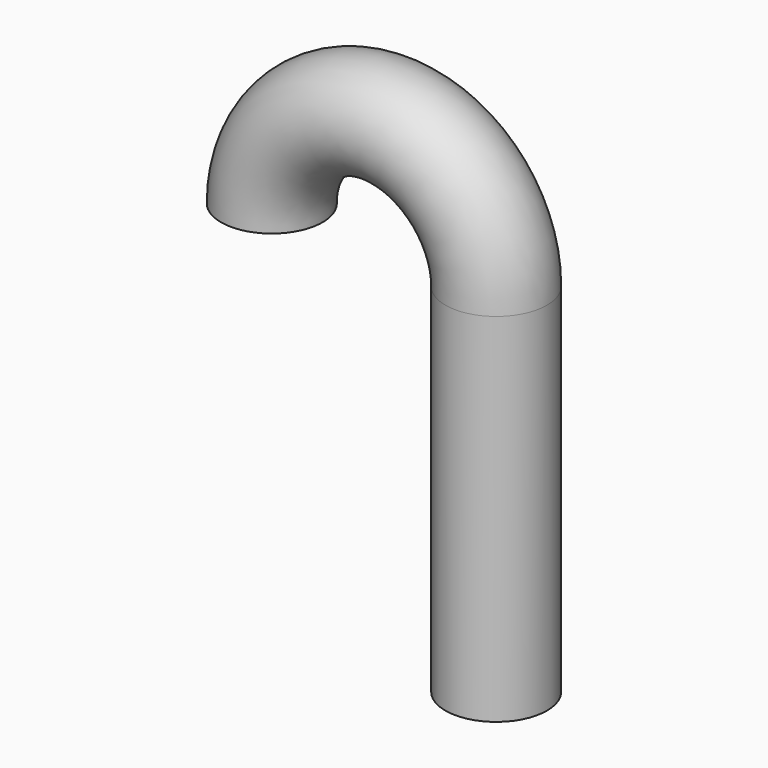
from build123d import *

# Parameters (mm, degrees)
F1_R = 7.094067


with BuildPart() as f2:
    # F2: sweep along a path in F0
    with BuildLine(Plane.XZ) as f2_path:
        Line((0, 0), (0, 49.847111))
        ThreePointArc((0, 49.847111), (-15.669033, 65.516144), (-31.338066, 49.847111))
    # F1 (on Top) → F2 (sweep)
    with BuildSketch(Plane.XY):
        Circle(F1_R)
    sweep(path=f2_path.line)


solid = f2.part
